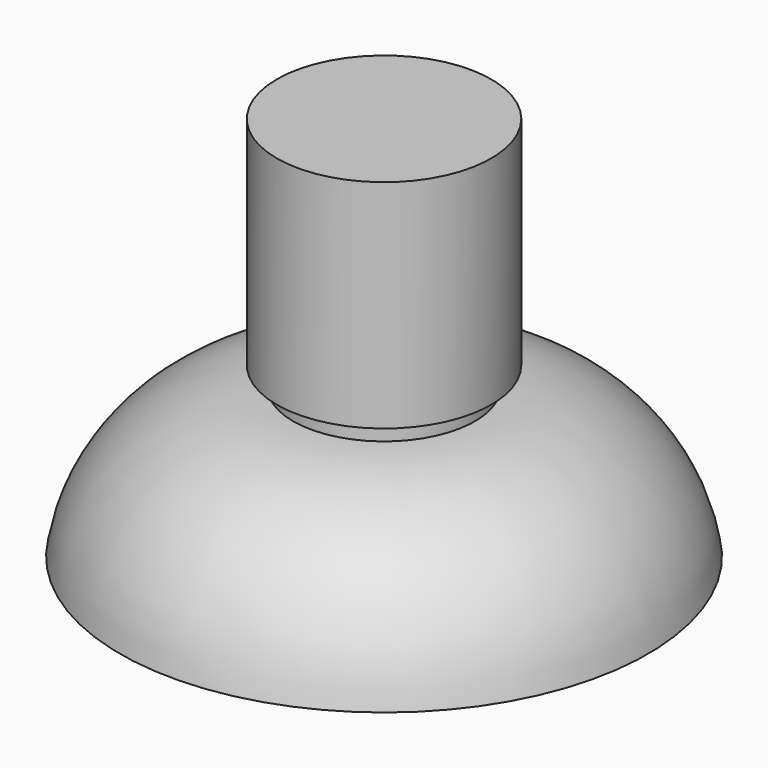
from build123d import *

# Parameters (mm, degrees)
F0_W = 10.788062
F0_H = 17.836556


with BuildPart() as f1:
    # F0 (on Front) → F1 (revolve)
    with BuildSketch(Plane.XZ):
        with BuildLine():
            Line((-31.687538, -20.21616), (-10.91693, -2.379604))
            ThreePointArc((-10.91693, -2.379604), (-24.605985, -7.450676), (-31.687538, -20.21616))
        make_face()
        Polygon((-10.91693, -20.21616), (-10.91693, -2.379604), (-31.687538, -20.21616), align=None)
        Polygon((0, -2.379604), (0, 0), (-10.91693, 0), (-10.91693, -2.379604), (-0.128868, -2.379604), align=None)
        with Locations((-5.522899, -11.297882)):
            Rectangle(F0_W, F0_H)
        Polygon((0, 0), (0, 26.033856), (-12.868427, 26.033856), (-12.868427, 0), (-10.91693, 0), align=None)
    revolve(axis=Axis((0, 0, 13.016928), (0, 0, -1)))


solid = f1.part
